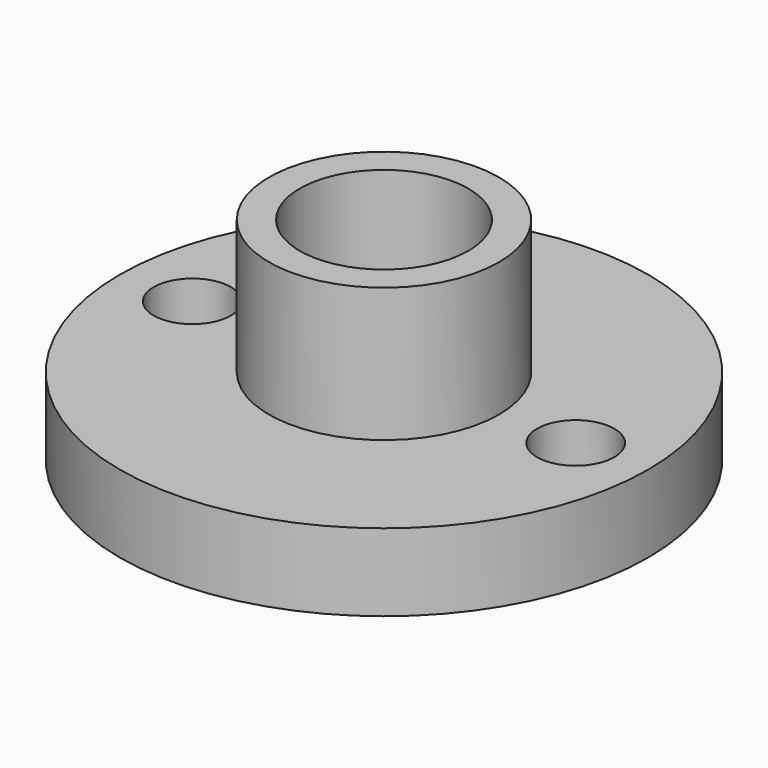
from build123d import *

# Parameters (mm, degrees)
F0_R     = 17.5006
F1_DEPTH = 5.1308
F2_R     = 7.62
F2_R_2   = 5.588
F3_DEPTH = 8.89
F4_R     = 5.588
F5_DEPTH = 14.0218
F7_D     = 5.1181


with BuildPart() as f1:
    # F0 (on Top) → F1 (new body)
    with BuildSketch(Plane.XY):
        Circle(F0_R)
    extrude(amount=F1_DEPTH)

    # F2 (on face) → F3 (join)
    with BuildSketch(Plane.XY.offset(5.1308)):
        Circle(F2_R)
        Circle(F2_R_2, mode=Mode.SUBTRACT)
    extrude(amount=F3_DEPTH)

    # F4 (on face) → F5 (cut, through all)
    with BuildSketch(Plane(origin=(0, 0, 0), x_dir=(1, 0, 0), z_dir=(0, 0, -1))):
        Circle(F4_R)
    extrude(amount=-F5_DEPTH, mode=Mode.SUBTRACT)

    # F7 (through all)
    with Locations(Plane.XY.offset(5.1308)):
        with Locations((-12.7, 0), (12.7, 0)):
            Hole(F7_D / 2)


solid = f1.part
